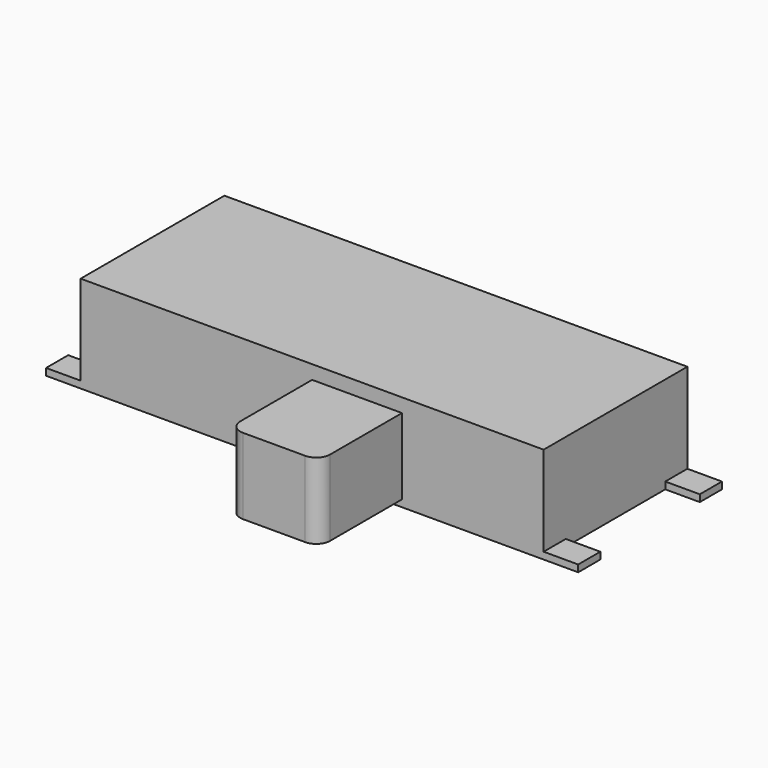
from build123d import *

# Parameters (mm, degrees)
F0_W     = 6.7
F0_H     = 2.6
F1_DEPTH = 1.4
F2_W     = 1.3
F2_H     = 1.1
F3_DEPTH = 1.5
F4_W     = 0.5
F4_H     = 0.4
F4_W_2   = 0.4
F4_H_2   = 0.9
F5_DEPTH = 0.1
F6_R     = 0.2


with BuildPart() as f1:
    # F0 (on Top) → F1 (new body)
    with BuildSketch(Plane.XY):
        Rectangle(F0_W, F0_H)
    extrude(amount=F1_DEPTH)

    # F4 (on face) → F5 (join)
    with BuildSketch(Plane(origin=(0, 0, 0), x_dir=(1, 0, 0), z_dir=(0, 0, -1))):
        with Locations((-3.6, 1.1)):
            Rectangle(F4_W, F4_H)
        with Locations((-3.6, -1.1)):
            Rectangle(F4_W, F4_H)
        with Locations((3.6, -1.1)):
            Rectangle(F4_W, F4_H)
        with Locations((3.6, 1.1)):
            Rectangle(F4_W, F4_H)
        with Locations((0.75, -1.75)):
            Rectangle(F4_W_2, F4_H_2)
        with Locations((2.25, -1.75)):
            Rectangle(F4_W_2, F4_H_2)
        with Locations((-2.25, -1.75)):
            Rectangle(F4_W_2, F4_H_2)
    extrude(amount=-F5_DEPTH)


with BuildPart() as f3:
    # F2 (on face) → F3 (new body)
    with BuildSketch(Plane.XZ.offset(1.3)):
        with Locations((0.65, 0.65)):
            Rectangle(F2_W, F2_H)
    extrude(amount=F3_DEPTH)

    # F6
    f6_edges = [f3.edges().sort_by_distance(p)[0] for p in [
        (0, -2.8, 0.65),
        (1.3, -2.8, 0.65),
    ]]
    fillet(f6_edges, radius=F6_R)


solid = Compound([f1.part, f3.part])
